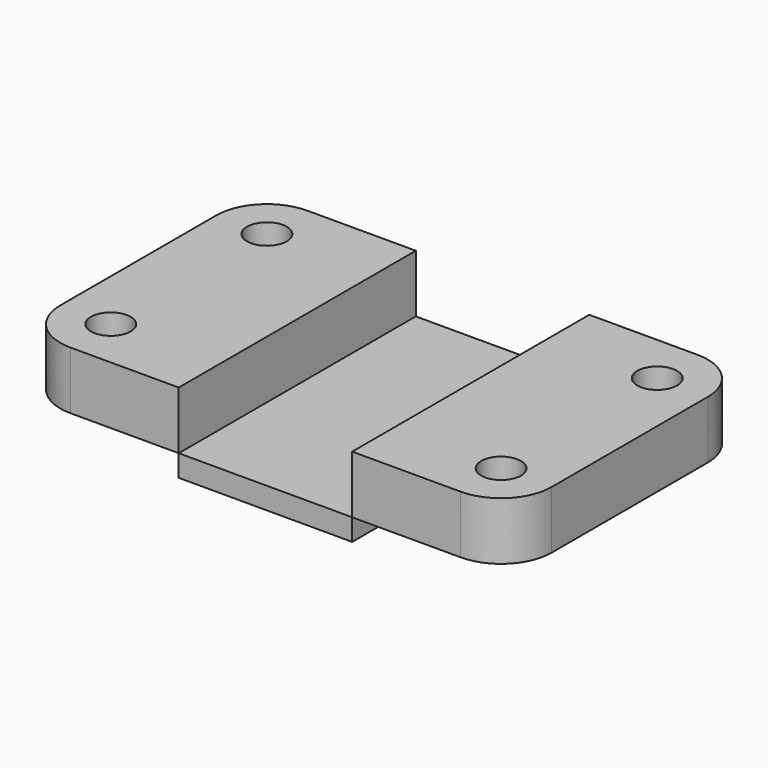
from build123d import *

# Parameters (mm, degrees)
F0_R     = 5.5
F1_DEPTH = 16
F2_W     = 48
F2_H     = 82
F3_DEPTH = 6
F4_W     = 48
F4_H     = 82
F5_DEPTH = 16


with BuildPart() as f1:
    # F0 (on Top) → F1 (new body)
    with BuildSketch(Plane.XY):
        with BuildLine():
            Line((-54, -41), (54, -41))
            ThreePointArc((54, -41), (63.899495, -36.899495), (68, -27))
            Line((68, -27), (68, 27))
            ThreePointArc((68, 27), (63.899495, 36.899495), (54, 41))
            Line((54, 41), (-54, 41))
            ThreePointArc((-54, 41), (-63.899495, 36.899495), (-68, 27))
            Line((-68, 27), (-68, -27))
            ThreePointArc((-68, -27), (-63.899495, -36.899495), (-54, -41))
        make_face()
        with Locations((-54, -27)):
            Circle(F0_R, mode=Mode.SUBTRACT)
        with Locations((54, -27)):
            Circle(F0_R, mode=Mode.SUBTRACT)
        with Locations((-54, 27)):
            Circle(F0_R, mode=Mode.SUBTRACT)
        with Locations((54, 27)):
            Circle(F0_R, mode=Mode.SUBTRACT)
    extrude(amount=F1_DEPTH)

    # F2 (on Top) → F3 (join)
    with BuildSketch(Plane.XY):
        Rectangle(F2_W, F2_H)
    extrude(amount=-F3_DEPTH)

    # F4 (on Top) → F5 (cut, through all)
    with BuildSketch(Plane.XY):
        Rectangle(F4_W, F4_H)
    extrude(amount=F5_DEPTH, mode=Mode.SUBTRACT)


solid = f1.part
